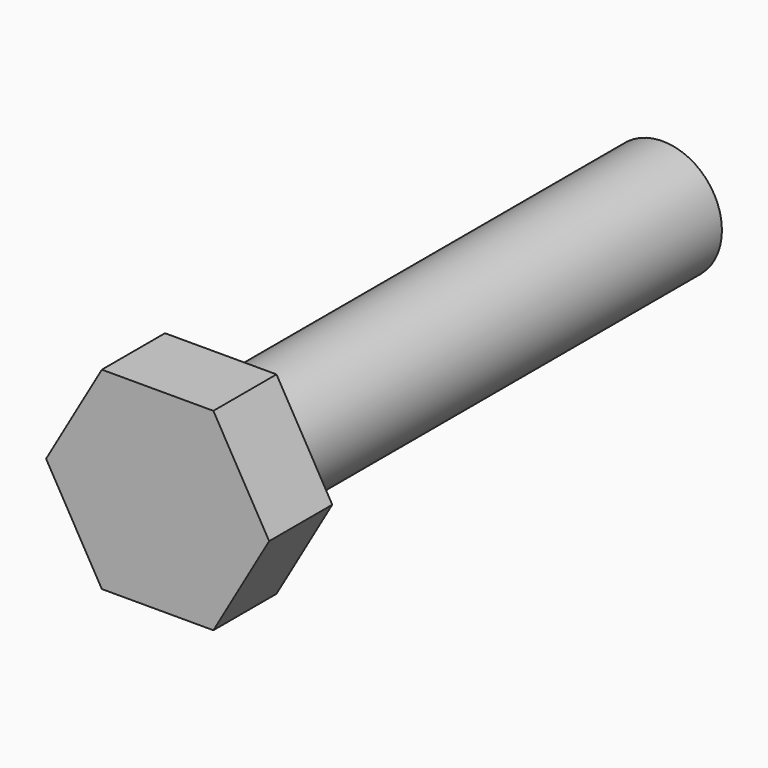
from build123d import *

# Parameters (mm, degrees)
F0_R     = 4.7625
F1_DEPTH = 22.225
F2_R     = 4.7625
F3_DEPTH = 6.35


with BuildPart() as f1:
    # F0 (on Front) → F1 (new body, symmetric)
    with BuildSketch(Plane.XZ):
        Circle(F0_R)
    extrude(amount=F1_DEPTH, both=True)

    # F2 (on face) → F3 (join)
    with BuildSketch(Plane.XZ.offset(22.225)):
        Polygon((-4.486586, -7.770996), (4.486586, -7.770996), (8.973173, 0), (4.486586, 7.770996), (-4.486586, 7.770996), (-8.973173, 0), align=None)
        Circle(F2_R, mode=Mode.SUBTRACT)
        Circle(F2_R)
    extrude(amount=F3_DEPTH)


solid = f1.part
